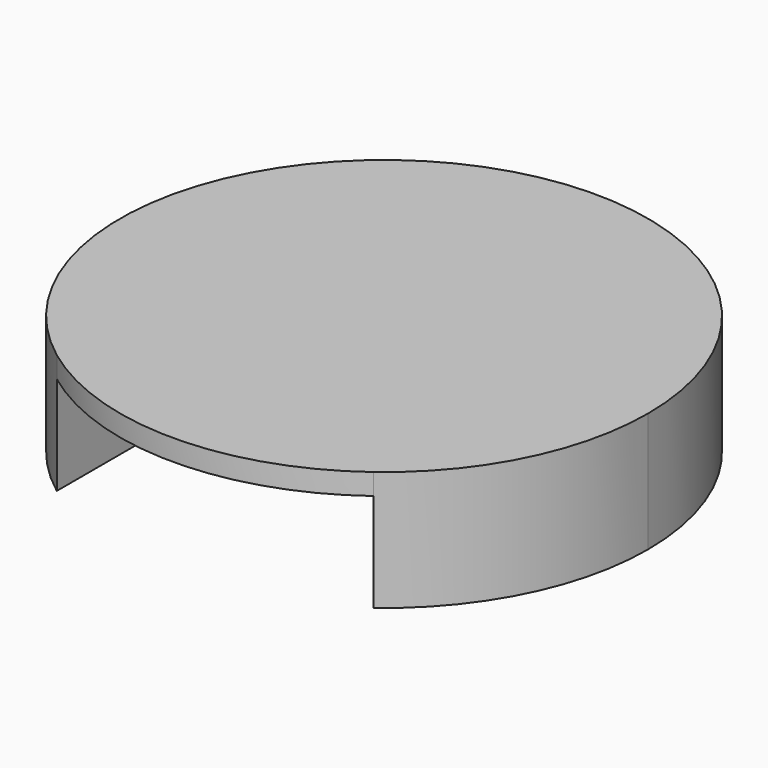
from build123d import *

# Parameters (mm, degrees)
F1_DEPTH = 17
F2_DEPTH = 14


with BuildPart() as f1:
    # F0 (on Top) → F1 (new body)
    with BuildSketch(Plane.XY):
        with BuildLine():
            ThreePointArc((22.5, -30), (33.54102, -16.77051), (37.5, 0))
            ThreePointArc((37.5, 0), (-16.77051, 33.54102), (-22.5, -30))
            Line((-22.5, -30), (-22.5, 0))
            Line((-22.5, 0), (22.5, 0))
            Line((22.5, 0), (22.5, -30))
        make_face()
        with BuildLine():
            Line((-22.5, 0), (-22.5, -30))
            ThreePointArc((-22.5, -30), (0, -37.5), (22.5, -30))
            Line((22.5, -30), (22.5, 0))
            Line((22.5, 0), (-22.5, 0))
        make_face()
    extrude(amount=F1_DEPTH)

    # F0 (on Top) → F2 (cut)
    with BuildSketch(Plane.XY):
        with BuildLine():
            Line((-22.5, 0), (-22.5, -30))
            ThreePointArc((-22.5, -30), (0, -37.5), (22.5, -30))
            Line((22.5, -30), (22.5, 0))
            Line((22.5, 0), (-22.5, 0))
        make_face()
        with BuildLine():
            ThreePointArc((22.5, -30), (0, -37.5), (-22.5, -30))
            Line((-22.5, -30), (-22.5, -70))
            Line((-22.5, -70), (22.5, -70))
            Line((22.5, -70), (22.5, -30))
        make_face()
    extrude(amount=F2_DEPTH, mode=Mode.SUBTRACT)


solid = f1.part
